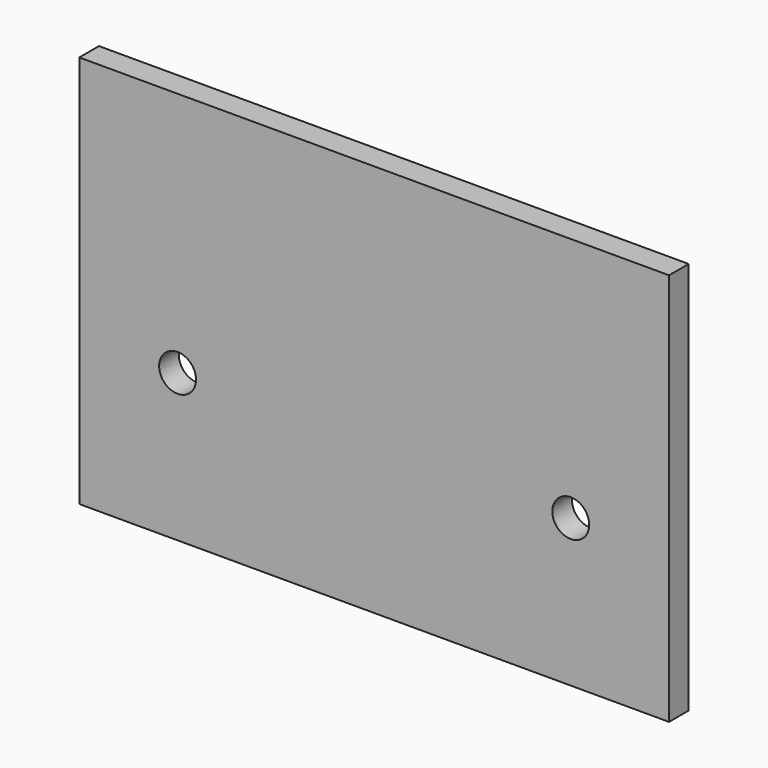
from build123d import *

# Parameters (mm, degrees)
F0_W     = 76.2
F0_H     = 50.8
F1_DEPTH = 1.5875
F2_R     = 2.38125
F4_DEPTH = 3.175
F3_R     = 2.38125
F5_DEPTH = 3.175


with BuildPart() as f1:
    # F0 (on Front) → F1 (new body, symmetric)
    with BuildSketch(Plane.XZ):
        Rectangle(F0_W, F0_H)
    extrude(amount=F1_DEPTH, both=True)

    # F2 (on face) → F4 (cut)
    with BuildSketch(Plane.XZ.offset(1.5875)):
        with Locations((-25.4, -6.35)):
            Circle(F2_R)
    extrude(amount=-F4_DEPTH, mode=Mode.SUBTRACT)

    # F3 (on face) → F5 (cut)
    with BuildSketch(Plane.XZ.offset(1.5875)):
        with Locations((25.4, -6.35)):
            Circle(F3_R)
    extrude(amount=-F5_DEPTH, mode=Mode.SUBTRACT)


solid = f1.part
